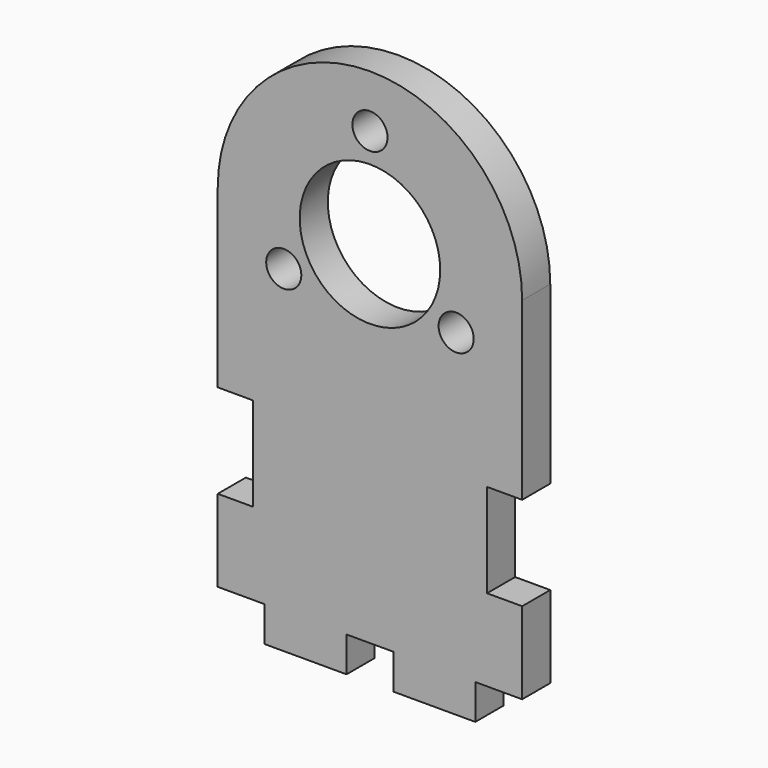
from build123d import *

# Parameters (mm, degrees)
F0_R     = 1.5
F0_R_2   = 6
F1_DEPTH = 3


with BuildPart() as f1:
    # F0 (on Front) → F1 (new body)
    with BuildSketch(Plane.XZ):
        with BuildLine():
            Line((13, 15), (13, 30))
            ThreePointArc((13, 30), (0, 43), (-13, 30))
            Line((-13, 30), (-13, 15))
            Line((-13, 15), (-10, 15))
            Line((-10, 15), (-10, 7))
            Line((-10, 7), (-13, 7))
            Line((-13, 7), (-13, 0))
            Line((-13, 0), (-9, 0))
            Line((-9, 0), (-9, -3))
            Line((-9, -3), (-2, -3))
            Line((-2, -3), (-2, 0))
            Line((-2, 0), (0, 0))
            Line((0, 0), (2, 0))
            Line((2, 0), (2, -3))
            Line((2, -3), (9, -3))
            Line((9, -3), (9, 0))
            Line((9, 0), (13, 0))
            Line((13, 0), (13, 7))
            Line((13, 7), (10, 7))
            Line((10, 7), (10, 15))
            Line((10, 15), (13, 15))
        make_face()
        with Locations((-7.361216, 25.75)):
            Circle(F0_R, mode=Mode.SUBTRACT)
        with Locations((0, 30)):
            Circle(F0_R_2, mode=Mode.SUBTRACT)
        with Locations((7.361216, 25.75)):
            Circle(F0_R, mode=Mode.SUBTRACT)
        with Locations((0, 38.5)):
            Circle(F0_R, mode=Mode.SUBTRACT)
    extrude(amount=F1_DEPTH)


solid = f1.part
